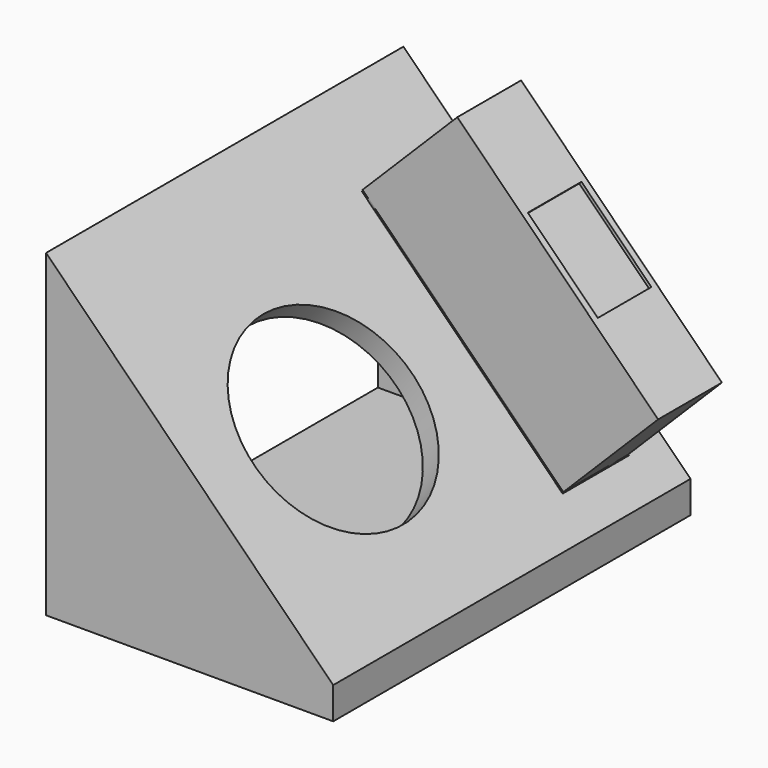
from build123d import *

# Parameters (mm, degrees)
PAD_DEPTH               = 140
SKETCH004_W             = 89
SKETCH004_H             = 26
POCKET001_DEPTH         = 8
POCKET002_DEPTH         = 120
SKETCH005_R             = 31
POCKET003_DEPTH         = 7.071068
CHAMFER_SIZE2           = 14.15
CHAMFER_SIZE            = 10
SKETCH001_W             = 89
SKETCH001_H             = 25
PAD001_DEPTH            = 42
SKETCH002_R             = 4
PAD002_DEPTH            = 13
SKETCH003_W             = 31
SKETCH003_H             = 21
POCKET_DEPTH            = 1
BODY001_PLACEMENT_ANGLE = 45


with BuildPart() as body:
    # Sketch → Pad (new body)
    with BuildSketch(Plane.XZ):
        Polygon((0, 0), (100, 0), (0, 100), align=None)
    extrude(amount=PAD_DEPTH)

    # Sketch004 (on Face2 of Pad) → Pocket001 (cut)
    with BuildSketch(Plane(origin=(50, 0, 50), x_dir=(-0.707107, 0, 0.707107), z_dir=(0.707107, 0, 0.707107))):
        with Locations((0.5, 26)):
            Rectangle(SKETCH004_W, SKETCH004_H)
    extrude(amount=-POCKET001_DEPTH, mode=Mode.SUBTRACT)

    # Sketch006 (on Face4 of Pad) → Pocket002 (cut)
    with BuildSketch(Plane(origin=(0, -10, 0), x_dir=(1, 0, 0), z_dir=(0, 1, 0))):
        Polygon((0, -10), (80, -10), (0, -90), align=None)
    extrude(amount=-POCKET002_DEPTH, mode=Mode.SUBTRACT)

    # Sketch005 (on Face3 of Pocket002) → Pocket003 (cut)
    with BuildSketch(Plane(origin=(50, 0, 50), x_dir=(-0.707107, 0, 0.707107), z_dir=(0.707107, 0, 0.707107))):
        with Locations((0, 90)):
            Circle(SKETCH005_R)
    extrude(amount=-POCKET003_DEPTH, mode=Mode.SUBTRACT)

    # Chamfer
    chamfer_edges = [body.edges().sort_by_distance(p)[0] for p in [
        (100, -70, 0),
    ]]
    chamfer_side = body.faces().sort_by_distance((50, -70, 0))[0]
    chamfer(chamfer_edges, length=CHAMFER_SIZE, length2=CHAMFER_SIZE2, reference=chamfer_side)


with BuildPart() as body001:
    # Sketch001 → Pad001 (new body)
    with BuildSketch(Plane.XY):
        with Locations((44.5, -12.5)):
            Rectangle(SKETCH001_W, SKETCH001_H)
    extrude(amount=PAD001_DEPTH)

    # Sketch002 (on Face5 of Pad001) → Pad002 (join)
    with BuildSketch(Plane(origin=(0, 0, 0), x_dir=(1, 0, 0), z_dir=(0, 0, -1))):
        with Locations((85, 4)):
            Circle(SKETCH002_R)
        with Locations((4, 21)):
            Circle(SKETCH002_R)
    extrude(amount=PAD002_DEPTH)

    # Sketch003 (on Face6 of Pad002) → Pocket (cut)
    with BuildSketch(Plane.XY.offset(42)):
        with Locations((44.5, -12.5)):
            Rectangle(SKETCH003_W, SKETCH003_H)
    extrude(amount=-POCKET_DEPTH, mode=Mode.SUBTRACT)


with BuildPart() as body001_1:
    # Body001 placement: moved
    add(body001.part.moved(Location((18, -13.5, 82))).rotate(Axis((18, -13.5, 82), (0, 1, 0)), BODY001_PLACEMENT_ANGLE))


solid = Compound([body.part, body001_1.part])
